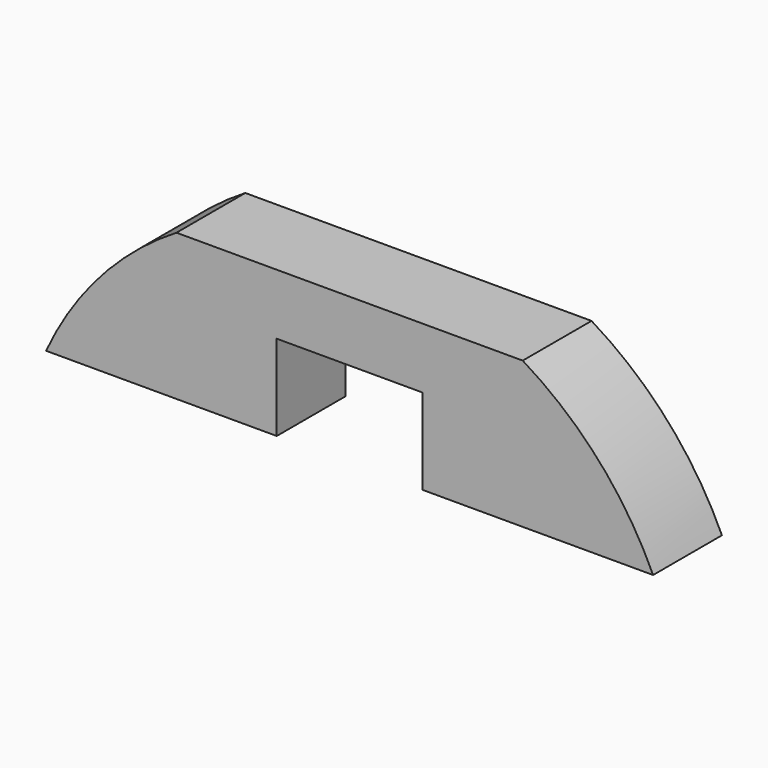
from build123d import *

# Parameters (mm, degrees)
F1_DEPTH = 17.99844


with BuildPart() as f1:
    # F0 (on Front) → F1 (new body)
    with BuildSketch(Plane.XZ):
        with BuildLine():
            ThreePointArc((-36.22162, 59.724507), (-52.159135, 46.459091), (-63.5, 29.099356))
            Line((-63.5, 29.099356), (-15.24, 29.099356))
            Line((-15.24, 29.099356), (-15.24, 47.024507))
            Line((-15.24, 47.024507), (15.24, 47.024507))
            Line((15.24, 47.024507), (15.24, 29.099356))
            Line((15.24, 29.099356), (63.5, 29.099356))
            ThreePointArc((63.5, 29.099356), (52.159135, 46.459091), (36.22162, 59.724507))
            Line((36.22162, 59.724507), (-36.22162, 59.724507))
        make_face()
    extrude(amount=F1_DEPTH)


solid = f1.part
